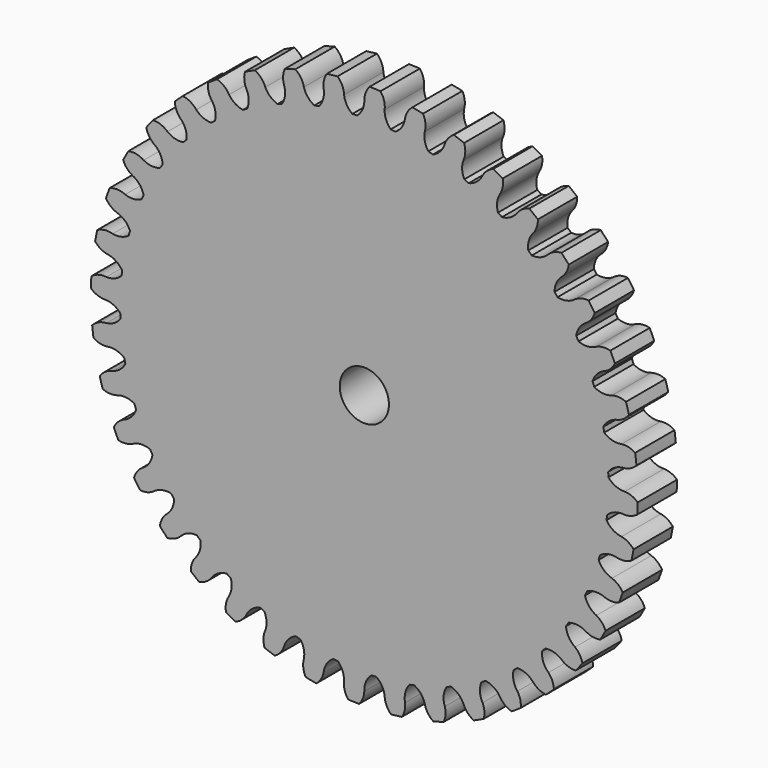
from build123d import *

# Parameters (mm, degrees)
F1_DEPTH = 6
F2_R     = 3
F3_DEPTH = 6.001


with BuildPart() as f1:
    # F0 (on Front) → F1 (new body)
    with BuildSketch(Plane.XZ):
        with BuildLine():
            ThreePointArc((29.620424, -3.211372), (29.750574, -1.60803), (29.794, 0))
            ThreePointArc((29.794, 0), (29.790784, 0.437781), (29.781135, 0.875468))
            ThreePointArc((29.781135, 0.875468), (29.771069, 1.168701), (29.758117, 1.46182))
            ThreePointArc((29.758117, 1.46182), (29.5876, 3.500909), (29.277526, 5.523486))
            ThreePointArc((29.277526, 5.523486), (29.221713, 5.811534), (29.163066, 6.099018))
            ThreePointArc((29.163066, 6.099018), (28.675665, 8.086328), (28.053008, 10.035496))
            ThreePointArc((28.053008, 10.035496), (27.952821, 10.311267), (27.849924, 10.586038))
            ThreePointArc((27.849924, 10.586038), (27.057639, 12.472634), (26.137731, 14.3004))
            ThreePointArc((26.137731, 14.3004), (25.995638, 14.557103), (25.851024, 14.812394))
            ThreePointArc((25.851024, 14.812394), (24.773365, 16.551822), (23.578857, 18.21318))
            ThreePointArc((23.578857, 18.21318), (23.398356, 18.444494), (23.215586, 18.67402))
            ThreePointArc((23.215586, 18.67402), (21.879088, 20.22345), (20.439393, 21.677492))
            ThreePointArc((20.439393, 21.677492), (20.224929, 21.877721), (20.008503, 22.075829))
            ThreePointArc((20.008503, 22.075829), (18.446076, 23.397109), (16.796643, 24.608031))
            ThreePointArc((16.796643, 24.608031), (16.553497, 24.772246), (16.308745, 24.934059))
            ThreePointArc((16.308745, 24.934059), (14.55886, 25.994654), (12.740304, 26.93264))
            ThreePointArc((12.740304, 26.93264), (12.474463, 27.056796), (12.207411, 27.178329))
            ThreePointArc((12.207411, 27.178329), (10.313156, 27.952124), (8.370257, 28.594077))
            ThreePointArc((8.370257, 28.594077), (8.088266, 28.675118), (7.80549, 28.753378))
            ThreePointArc((7.80549, 28.753378), (5.813508, 29.22132), (3.794106, 29.551433))
            ThreePointArc((3.794106, 29.551433), (3.502909, 29.587363), (3.211372, 29.620424))
            ThreePointArc((3.211372, 29.620424), (1.170713, 29.77099), (-0.875468, 29.781135))
            ThreePointArc((-0.875468, 29.781135), (-1.168701, 29.771069), (-1.46182, 29.758117))
            ThreePointArc((-1.46182, 29.758117), (-3.500909, 29.5876), (-5.523486, 29.277526))
            ThreePointArc((-5.523486, 29.277526), (-5.811534, 29.221713), (-6.099018, 29.163066))
            ThreePointArc((-6.099018, 29.163066), (-8.086328, 28.675665), (-10.035496, 28.053008))
            ThreePointArc((-10.035496, 28.053008), (-10.311267, 27.952821), (-10.586038, 27.849924))
            ThreePointArc((-10.586038, 27.849924), (-12.472634, 27.057639), (-14.3004, 26.137731))
            ThreePointArc((-14.3004, 26.137731), (-14.557103, 25.995638), (-14.812394, 25.851024))
            ThreePointArc((-14.812394, 25.851024), (-16.551822, 24.773365), (-18.21318, 23.578857))
            ThreePointArc((-18.21318, 23.578857), (-18.444494, 23.398356), (-18.67402, 23.215586))
            ThreePointArc((-18.67402, 23.215586), (-20.22345, 21.879088), (-21.677492, 20.439393))
            ThreePointArc((-21.677492, 20.439393), (-21.877721, 20.224929), (-22.075829, 20.008503))
            ThreePointArc((-22.075829, 20.008503), (-23.397109, 18.446076), (-24.608031, 16.796643))
            ThreePointArc((-24.608031, 16.796643), (-24.772246, 16.553497), (-24.934059, 16.308745))
            ThreePointArc((-24.934059, 16.308745), (-25.994654, 14.55886), (-26.93264, 12.740304))
            ThreePointArc((-26.93264, 12.740304), (-27.056796, 12.474463), (-27.178329, 12.207411))
            ThreePointArc((-27.178329, 12.207411), (-27.952124, 10.313156), (-28.594077, 8.370257))
            ThreePointArc((-28.594077, 8.370257), (-28.675118, 8.088266), (-28.753378, 7.80549))
            ThreePointArc((-28.753378, 7.80549), (-29.22132, 5.813508), (-29.551433, 3.794106))
            ThreePointArc((-29.551433, 3.794106), (-29.587363, 3.502909), (-29.620424, 3.211372))
            ThreePointArc((-29.620424, 3.211372), (-29.77099, 1.170713), (-29.781135, -0.875468))
            ThreePointArc((-29.781135, -0.875468), (-29.771069, -1.168701), (-29.758117, -1.46182))
            ThreePointArc((-29.758117, -1.46182), (-29.5876, -3.500909), (-29.277526, -5.523486))
            ThreePointArc((-29.277526, -5.523486), (-29.221713, -5.811534), (-29.163066, -6.099018))
            ThreePointArc((-29.163066, -6.099018), (-28.675665, -8.086328), (-28.053008, -10.035496))
            ThreePointArc((-28.053008, -10.035496), (-27.952821, -10.311267), (-27.849924, -10.586038))
            ThreePointArc((-27.849924, -10.586038), (-27.057639, -12.472634), (-26.137731, -14.3004))
            ThreePointArc((-26.137731, -14.3004), (-25.995638, -14.557103), (-25.851024, -14.812394))
            ThreePointArc((-25.851024, -14.812394), (-24.773365, -16.551822), (-23.578857, -18.21318))
            ThreePointArc((-23.578857, -18.21318), (-23.398356, -18.444494), (-23.215586, -18.67402))
            ThreePointArc((-23.215586, -18.67402), (-21.879088, -20.22345), (-20.439393, -21.677492))
            ThreePointArc((-20.439393, -21.677492), (-20.224929, -21.877721), (-20.008503, -22.075829))
            ThreePointArc((-20.008503, -22.075829), (-18.446076, -23.397109), (-16.796643, -24.608031))
            ThreePointArc((-16.796643, -24.608031), (-16.553497, -24.772246), (-16.308745, -24.934059))
            ThreePointArc((-16.308745, -24.934059), (-14.55886, -25.994654), (-12.740304, -26.93264))
            ThreePointArc((-12.740304, -26.93264), (-12.474463, -27.056796), (-12.207411, -27.178329))
            ThreePointArc((-12.207411, -27.178329), (-10.313156, -27.952124), (-8.370257, -28.594077))
            ThreePointArc((-8.370257, -28.594077), (-8.088266, -28.675118), (-7.80549, -28.753378))
            ThreePointArc((-7.80549, -28.753378), (-5.813508, -29.22132), (-3.794106, -29.551433))
            ThreePointArc((-3.794106, -29.551433), (-3.502909, -29.587363), (-3.211372, -29.620424))
            ThreePointArc((-3.211372, -29.620424), (-1.170713, -29.77099), (0.875468, -29.781135))
            ThreePointArc((0.875468, -29.781135), (1.168701, -29.771069), (1.46182, -29.758117))
            ThreePointArc((1.46182, -29.758117), (3.500909, -29.5876), (5.523486, -29.277526))
            ThreePointArc((5.523486, -29.277526), (5.811534, -29.221713), (6.099018, -29.163066))
            ThreePointArc((6.099018, -29.163066), (8.086328, -28.675665), (10.035496, -28.053008))
            ThreePointArc((10.035496, -28.053008), (10.311267, -27.952821), (10.586038, -27.849924))
            ThreePointArc((10.586038, -27.849924), (12.472634, -27.057639), (14.3004, -26.137731))
            ThreePointArc((14.3004, -26.137731), (14.557103, -25.995638), (14.812394, -25.851024))
            ThreePointArc((14.812394, -25.851024), (16.551822, -24.773365), (18.21318, -23.578857))
            ThreePointArc((18.21318, -23.578857), (18.444494, -23.398356), (18.67402, -23.215586))
            ThreePointArc((18.67402, -23.215586), (20.22345, -21.879088), (21.677492, -20.439393))
            ThreePointArc((21.677492, -20.439393), (21.877721, -20.224929), (22.075829, -20.008503))
            ThreePointArc((22.075829, -20.008503), (23.397109, -18.446076), (24.608031, -16.796643))
            ThreePointArc((24.608031, -16.796643), (24.772246, -16.553497), (24.934059, -16.308745))
            ThreePointArc((24.934059, -16.308745), (25.994654, -14.55886), (26.93264, -12.740304))
            ThreePointArc((26.93264, -12.740304), (27.056796, -12.474463), (27.178329, -12.207411))
            ThreePointArc((27.178329, -12.207411), (27.952124, -10.313156), (28.594077, -8.370257))
            ThreePointArc((28.594077, -8.370257), (28.675118, -8.088266), (28.753378, -7.80549))
            ThreePointArc((28.753378, -7.80549), (29.22132, -5.813508), (29.551433, -3.794106))
            ThreePointArc((29.551433, -3.794106), (29.587363, -3.502909), (29.620424, -3.211372))
        make_face()
        with BuildLine():
            ThreePointArc((29.781135, 0.875468), (29.790784, 0.437781), (29.794, 0))
            ThreePointArc((29.794, 0), (29.750574, -1.60803), (29.620424, -3.211372))
            ThreePointArc((29.620424, -3.211372), (30.476757, -2.650428), (31.486199, -2.480159))
            ThreePointArc((31.486199, -2.480159), (32.448267, -2.406434), (33.310589, -1.973525))
            ThreePointArc((33.310589, -1.973525), (33.343229, -1.311188), (33.362701, -0.648332))
            ThreePointArc((33.362701, -0.648332), (32.628579, -0.18446), (31.78, 0))
            ThreePointArc((31.78, 0), (30.679893, 0.207874), (29.781135, 0.875468))
        make_face()
        with BuildLine():
            ThreePointArc((29.277526, 5.523486), (29.5876, 3.500909), (29.758117, 1.46182))
            ThreePointArc((29.758117, 1.46182), (30.516156, 2.149818), (31.486534, 2.475903))
            ThreePointArc((31.486534, 2.475903), (32.425224, 2.69922), (33.209208, 3.261696))
            ThreePointArc((33.209208, 3.261696), (33.137834, 3.920986), (33.053372, 4.578727))
            ThreePointArc((33.053372, 4.578727), (32.255723, 4.922046), (31.388735, 4.971487))
            ThreePointArc((31.388735, 4.971487), (30.269654, 5.004707), (29.277526, 5.523486))
        make_face()
        with BuildLine():
            ThreePointArc((31.388735, -4.971487), (30.334691, -4.594078), (29.551433, -3.794106))
            ThreePointArc((29.551433, -3.794106), (29.22132, -5.813508), (28.753378, -7.80549))
            ThreePointArc((28.753378, -7.80549), (29.686919, -7.385412), (30.710569, -7.375151))
            ThreePointArc((30.710569, -7.375151), (31.672326, -7.452834), (32.591753, -7.160152))
            ThreePointArc((32.591753, -7.160152), (32.727604, -6.511075), (32.850529, -5.859426))
            ThreePointArc((32.850529, -5.859426), (32.198012, -5.286423), (31.388735, -4.971487))
        make_face()
        with BuildLine():
            ThreePointArc((28.053008, 10.035496), (28.675665, 8.086328), (29.163066, 6.099018))
            ThreePointArc((29.163066, 6.099018), (29.804146, 6.897129), (30.711566, 7.370999))
            ThreePointArc((30.711566, 7.370999), (31.603765, 7.738411), (32.290106, 8.416604))
            ThreePointArc((32.290106, 8.416604), (32.116475, 9.056611), (31.93016, 9.693042))
            ThreePointArc((31.93016, 9.693042), (31.088624, 9.907354), (30.224576, 9.82056))
            ThreePointArc((30.224576, 9.82056), (29.114075, 9.678308), (28.053008, 10.035496))
        make_face()
        with BuildLine():
            ThreePointArc((30.224576, -9.82056), (29.242548, -9.282908), (28.594077, -8.370257))
            ThreePointArc((28.594077, -8.370257), (27.952124, -10.313156), (27.178329, -12.207411))
            ThreePointArc((27.178329, -12.207411), (28.166091, -11.938543), (29.178743, -12.088542))
            ThreePointArc((29.178743, -12.088542), (30.116507, -12.315721), (31.0704, -12.170472))
            ThreePointArc((31.0704, -12.170472), (31.306116, -11.550638), (31.529469, -10.926242))
            ThreePointArc((31.529469, -10.926242), (30.974622, -10.258217), (30.224576, -9.82056))
        make_face()
        with BuildLine():
            ThreePointArc((26.137731, 14.3004), (27.057639, 12.472634), (27.849924, 10.586038))
            ThreePointArc((27.849924, 10.586038), (28.358259, 11.474609), (29.180377, 12.084598))
            ThreePointArc((29.180377, 12.084598), (30.004116, 12.587056), (30.575914, 13.364267))
            ThreePointArc((30.575914, 13.364267), (30.304302, 13.969233), (30.020721, 14.568682))
            ThreePointArc((30.020721, 14.568682), (29.15602, 14.64871), (28.316187, 14.427818))
            ThreePointArc((28.316187, 14.427818), (27.241612, 14.113597), (26.137731, 14.3004))
        make_face()
        with BuildLine():
            ThreePointArc((28.316187, -14.427818), (27.430357, -13.743163), (26.93264, -12.740304))
            ThreePointArc((26.93264, -12.740304), (25.994654, -14.55886), (24.934059, -16.308745))
            ThreePointArc((24.934059, -16.308745), (25.95172, -16.197707), (26.92844, -16.504273))
            ThreePointArc((26.92844, -16.504273), (27.819119, -16.875353), (28.783991, -16.881115))
            ThreePointArc((28.783991, -16.881115), (29.113768, -16.305786), (29.432048, -15.724017))
            ThreePointArc((29.432048, -15.724017), (28.988534, -14.97742), (28.316187, -14.427818))
        make_face()
        with BuildLine():
            ThreePointArc((23.578857, 18.21318), (24.773365, 16.551822), (25.851024, 14.812394))
            ThreePointArc((25.851024, 14.812394), (26.214097, 15.769547), (26.930671, 16.500633))
            ThreePointArc((26.930671, 16.500633), (27.665666, 17.125767), (28.108842, 17.982857))
            ThreePointArc((28.108842, 17.982857), (27.745936, 18.537886), (27.372072, 19.085592))
            ThreePointArc((27.372072, 19.085592), (26.505498, 19.029367), (25.71056, 18.679815))
            ThreePointArc((25.71056, 18.679815), (24.698369, 18.201362), (23.578857, 18.21318))
        make_face()
        with BuildLine():
            ThreePointArc((25.71056, -18.679815), (24.94274, -17.865015), (24.608031, -16.796643))
            ThreePointArc((24.608031, -16.796643), (23.397109, -18.446076), (22.075829, -20.008503))
            ThreePointArc((22.075829, -20.008503), (23.098332, -20.05803), (24.015069, -20.513614))
            ThreePointArc((24.015069, -20.513614), (24.836733, -21.019459), (25.788824, -21.176089))
            ThreePointArc((25.788824, -21.176089), (26.204543, -20.659431), (26.609912, -20.134615))
            ThreePointArc((26.609912, -20.134615), (26.288653, -19.327829), (25.71056, -18.679815))
        make_face()
        with BuildLine():
            ThreePointArc((20.439393, 21.677492), (21.879088, 20.22345), (23.215586, 18.67402))
            ThreePointArc((23.215586, 18.67402), (23.424457, 19.676186), (24.017842, 20.510368))
            ThreePointArc((24.017842, 20.510368), (24.645995, 21.242784), (24.949637, 22.15865))
            ThreePointArc((24.949637, 22.15865), (24.504373, 22.650074), (24.049432, 23.132552))
            ThreePointArc((24.049432, 23.132552), (23.202322, 22.941457), (22.471854, 22.471854))
            ThreePointArc((22.471854, 22.471854), (21.546971, 21.840949), (20.439393, 21.677492))
        make_face()
        with BuildLine():
            ThreePointArc((22.471854, -22.471854), (21.840949, -21.546971), (21.677492, -20.439393))
            ThreePointArc((21.677492, -20.439393), (20.22345, -21.879088), (18.67402, -23.215586))
            ThreePointArc((18.67402, -23.215586), (19.676186, -23.424457), (20.510368, -24.017842))
            ThreePointArc((20.510368, -24.017842), (21.242784, -24.645995), (22.15865, -24.949637))
            ThreePointArc((22.15865, -24.949637), (22.650074, -24.504373), (23.132552, -24.049432))
            ThreePointArc((23.132552, -24.049432), (22.941457, -23.202322), (22.471854, -22.471854))
        make_face()
        with BuildLine():
            ThreePointArc((16.796643, 24.608031), (18.446076, 23.397109), (20.008503, 22.075829))
            ThreePointArc((20.008503, 22.075829), (20.05803, 23.098332), (20.513614, 24.015069))
            ThreePointArc((20.513614, 24.015069), (21.019459, 24.836733), (21.176089, 25.788824))
            ThreePointArc((21.176089, 25.788824), (20.659431, 26.204543), (20.134615, 26.609912))
            ThreePointArc((20.134615, 26.609912), (19.327829, 26.288653), (18.679815, 25.71056))
            ThreePointArc((18.679815, 25.71056), (17.865015, 24.94274), (16.796643, 24.608031))
        make_face()
        with BuildLine():
            ThreePointArc((18.679815, -25.71056), (18.201362, -24.698369), (18.21318, -23.578857))
            ThreePointArc((18.21318, -23.578857), (16.551822, -24.773365), (14.812394, -25.851024))
            ThreePointArc((14.812394, -25.851024), (15.769547, -26.214097), (16.500633, -26.930671))
            ThreePointArc((16.500633, -26.930671), (17.125767, -27.665666), (17.982857, -28.108842))
            ThreePointArc((17.982857, -28.108842), (18.537886, -27.745936), (19.085592, -27.372072))
            ThreePointArc((19.085592, -27.372072), (19.029367, -26.505498), (18.679815, -25.71056))
        make_face()
        with BuildLine():
            ThreePointArc((12.740304, 26.93264), (14.55886, 25.994654), (16.308745, 24.934059))
            ThreePointArc((16.308745, 24.934059), (16.197707, 25.95172), (16.504273, 26.92844))
            ThreePointArc((16.504273, 26.92844), (16.875353, 27.819119), (16.881115, 28.783991))
            ThreePointArc((16.881115, 28.783991), (16.305786, 29.113768), (15.724017, 29.432048))
            ThreePointArc((15.724017, 29.432048), (14.97742, 28.988534), (14.427818, 28.316187))
            ThreePointArc((14.427818, 28.316187), (13.743163, 27.430357), (12.740304, 26.93264))
        make_face()
        with BuildLine():
            ThreePointArc((14.427818, -28.316187), (14.113597, -27.241612), (14.3004, -26.137731))
            ThreePointArc((14.3004, -26.137731), (12.472634, -27.057639), (10.586038, -27.849924))
            ThreePointArc((10.586038, -27.849924), (11.474609, -28.358259), (12.084598, -29.180377))
            ThreePointArc((12.084598, -29.180377), (12.587056, -30.004116), (13.364267, -30.575914))
            ThreePointArc((13.364267, -30.575914), (13.969233, -30.304302), (14.568682, -30.020721))
            ThreePointArc((14.568682, -30.020721), (14.64871, -29.15602), (14.427818, -28.316187))
        make_face()
        with BuildLine():
            ThreePointArc((8.370257, 28.594077), (10.313156, 27.952124), (12.207411, 27.178329))
            ThreePointArc((12.207411, 27.178329), (11.938543, 28.166091), (12.088542, 29.178743))
            ThreePointArc((12.088542, 29.178743), (12.315721, 30.116507), (12.170472, 31.0704))
            ThreePointArc((12.170472, 31.0704), (11.550638, 31.306116), (10.926242, 31.529469))
            ThreePointArc((10.926242, 31.529469), (10.258217, 30.974622), (9.82056, 30.224576))
            ThreePointArc((9.82056, 30.224576), (9.282908, 29.242548), (8.370257, 28.594077))
        make_face()
        with BuildLine():
            ThreePointArc((9.82056, -30.224576), (9.678308, -29.114075), (10.035496, -28.053008))
            ThreePointArc((10.035496, -28.053008), (8.086328, -28.675665), (6.099018, -29.163066))
            ThreePointArc((6.099018, -29.163066), (6.897129, -29.804146), (7.370999, -30.711566))
            ThreePointArc((7.370999, -30.711566), (7.738411, -31.603765), (8.416604, -32.290106))
            ThreePointArc((8.416604, -32.290106), (9.056611, -32.116475), (9.693042, -31.93016))
            ThreePointArc((9.693042, -31.93016), (9.907354, -31.088624), (9.82056, -30.224576))
        make_face()
        with BuildLine():
            ThreePointArc((3.794106, 29.551433), (5.813508, 29.22132), (7.80549, 28.753378))
            ThreePointArc((7.80549, 28.753378), (7.385412, 29.686919), (7.375151, 30.710569))
            ThreePointArc((7.375151, 30.710569), (7.452834, 31.672326), (7.160152, 32.591753))
            ThreePointArc((7.160152, 32.591753), (6.511075, 32.727604), (5.859426, 32.850529))
            ThreePointArc((5.859426, 32.850529), (5.286423, 32.198012), (4.971487, 31.388735))
            ThreePointArc((4.971487, 31.388735), (4.594078, 30.334691), (3.794106, 29.551433))
        make_face()
        with BuildLine():
            ThreePointArc((4.971487, -31.388735), (5.004707, -30.269654), (5.523486, -29.277526))
            ThreePointArc((5.523486, -29.277526), (3.500909, -29.5876), (1.46182, -29.758117))
            ThreePointArc((1.46182, -29.758117), (2.149818, -30.516156), (2.475903, -31.486534))
            ThreePointArc((2.475903, -31.486534), (2.69922, -32.425224), (3.261696, -33.209208))
            ThreePointArc((3.261696, -33.209208), (3.920986, -33.137834), (4.578727, -33.053372))
            ThreePointArc((4.578727, -33.053372), (4.922046, -32.255723), (4.971487, -31.388735))
        make_face()
        with BuildLine():
            ThreePointArc((-0.875468, 29.781135), (1.170713, 29.77099), (3.211372, 29.620424))
            ThreePointArc((3.211372, 29.620424), (2.650428, 30.476757), (2.480159, 31.486199))
            ThreePointArc((2.480159, 31.486199), (2.406434, 32.448267), (1.973525, 33.310589))
            ThreePointArc((1.973525, 33.310589), (1.311187, 33.343229), (0.648332, 33.362701))
            ThreePointArc((0.648332, 33.362701), (0.18446, 32.628579), (0, 31.78))
            ThreePointArc((0, 31.78), (-0.207874, 30.679893), (-0.875468, 29.781135))
        make_face()
        with BuildLine():
            ThreePointArc((0, -31.78), (0.207874, -30.679893), (0.875468, -29.781135))
            ThreePointArc((0.875468, -29.781135), (-1.170713, -29.77099), (-3.211372, -29.620424))
            ThreePointArc((-3.211372, -29.620424), (-2.650428, -30.476757), (-2.480159, -31.486199))
            ThreePointArc((-2.480159, -31.486199), (-2.406434, -32.448267), (-1.973525, -33.310589))
            ThreePointArc((-1.973525, -33.310589), (-1.311187, -33.343229), (-0.648332, -33.362701))
            ThreePointArc((-0.648332, -33.362701), (-0.18446, -32.628579), (0, -31.78))
        make_face()
        with BuildLine():
            ThreePointArc((-5.523486, 29.277526), (-3.500909, 29.5876), (-1.46182, 29.758117))
            ThreePointArc((-1.46182, 29.758117), (-2.149818, 30.516156), (-2.475903, 31.486534))
            ThreePointArc((-2.475903, 31.486534), (-2.69922, 32.425224), (-3.261696, 33.209208))
            ThreePointArc((-3.261696, 33.209208), (-3.920986, 33.137834), (-4.578727, 33.053372))
            ThreePointArc((-4.578727, 33.053372), (-4.922046, 32.255723), (-4.971487, 31.388735))
            ThreePointArc((-4.971487, 31.388735), (-5.004707, 30.269654), (-5.523486, 29.277526))
        make_face()
        with BuildLine():
            ThreePointArc((-4.971487, -31.388735), (-4.594078, -30.334691), (-3.794106, -29.551433))
            ThreePointArc((-3.794106, -29.551433), (-5.813508, -29.22132), (-7.80549, -28.753378))
            ThreePointArc((-7.80549, -28.753378), (-7.385412, -29.686919), (-7.375151, -30.710569))
            ThreePointArc((-7.375151, -30.710569), (-7.452834, -31.672326), (-7.160152, -32.591753))
            ThreePointArc((-7.160152, -32.591753), (-6.511075, -32.727604), (-5.859426, -32.850529))
            ThreePointArc((-5.859426, -32.850529), (-5.286423, -32.198012), (-4.971487, -31.388735))
        make_face()
        with BuildLine():
            ThreePointArc((-10.035496, 28.053008), (-8.086328, 28.675665), (-6.099018, 29.163066))
            ThreePointArc((-6.099018, 29.163066), (-6.897129, 29.804146), (-7.370999, 30.711566))
            ThreePointArc((-7.370999, 30.711566), (-7.738411, 31.603765), (-8.416604, 32.290106))
            ThreePointArc((-8.416604, 32.290106), (-9.056611, 32.116475), (-9.693042, 31.93016))
            ThreePointArc((-9.693042, 31.93016), (-9.907354, 31.088624), (-9.82056, 30.224576))
            ThreePointArc((-9.82056, 30.224576), (-9.678308, 29.114075), (-10.035496, 28.053008))
        make_face()
        with BuildLine():
            ThreePointArc((-9.82056, -30.224576), (-9.282908, -29.242548), (-8.370257, -28.594077))
            ThreePointArc((-8.370257, -28.594077), (-10.313156, -27.952124), (-12.207411, -27.178329))
            ThreePointArc((-12.207411, -27.178329), (-11.938543, -28.166091), (-12.088542, -29.178743))
            ThreePointArc((-12.088542, -29.178743), (-12.315721, -30.116507), (-12.170472, -31.0704))
            ThreePointArc((-12.170472, -31.0704), (-11.550638, -31.306116), (-10.926242, -31.529469))
            ThreePointArc((-10.926242, -31.529469), (-10.258217, -30.974622), (-9.82056, -30.224576))
        make_face()
        with BuildLine():
            ThreePointArc((-14.3004, 26.137731), (-12.472634, 27.057639), (-10.586038, 27.849924))
            ThreePointArc((-10.586038, 27.849924), (-11.474609, 28.358259), (-12.084598, 29.180377))
            ThreePointArc((-12.084598, 29.180377), (-12.587056, 30.004116), (-13.364267, 30.575914))
            ThreePointArc((-13.364267, 30.575914), (-13.969233, 30.304302), (-14.568682, 30.020721))
            ThreePointArc((-14.568682, 30.020721), (-14.64871, 29.15602), (-14.427818, 28.316187))
            ThreePointArc((-14.427818, 28.316187), (-14.113597, 27.241612), (-14.3004, 26.137731))
        make_face()
        with BuildLine():
            ThreePointArc((-14.427818, -28.316187), (-13.743163, -27.430357), (-12.740304, -26.93264))
            ThreePointArc((-12.740304, -26.93264), (-14.55886, -25.994654), (-16.308745, -24.934059))
            ThreePointArc((-16.308745, -24.934059), (-16.197707, -25.95172), (-16.504273, -26.92844))
            ThreePointArc((-16.504273, -26.92844), (-16.875353, -27.819119), (-16.881115, -28.783991))
            ThreePointArc((-16.881115, -28.783991), (-16.305786, -29.113768), (-15.724017, -29.432048))
            ThreePointArc((-15.724017, -29.432048), (-14.97742, -28.988534), (-14.427818, -28.316187))
        make_face()
        with BuildLine():
            ThreePointArc((-18.21318, 23.578857), (-16.551822, 24.773365), (-14.812394, 25.851024))
            ThreePointArc((-14.812394, 25.851024), (-15.769547, 26.214097), (-16.500633, 26.930671))
            ThreePointArc((-16.500633, 26.930671), (-17.125767, 27.665666), (-17.982857, 28.108842))
            ThreePointArc((-17.982857, 28.108842), (-18.537886, 27.745936), (-19.085592, 27.372072))
            ThreePointArc((-19.085592, 27.372072), (-19.029367, 26.505498), (-18.679815, 25.71056))
            ThreePointArc((-18.679815, 25.71056), (-18.201362, 24.698369), (-18.21318, 23.578857))
        make_face()
        with BuildLine():
            ThreePointArc((-18.679815, -25.71056), (-17.865015, -24.94274), (-16.796643, -24.608031))
            ThreePointArc((-16.796643, -24.608031), (-18.446076, -23.397109), (-20.008503, -22.075829))
            ThreePointArc((-20.008503, -22.075829), (-20.05803, -23.098332), (-20.513614, -24.015069))
            ThreePointArc((-20.513614, -24.015069), (-21.019459, -24.836733), (-21.176089, -25.788824))
            ThreePointArc((-21.176089, -25.788824), (-20.659431, -26.204543), (-20.134615, -26.609912))
            ThreePointArc((-20.134615, -26.609912), (-19.327829, -26.288653), (-18.679815, -25.71056))
        make_face()
        with BuildLine():
            ThreePointArc((-21.677492, 20.439393), (-20.22345, 21.879088), (-18.67402, 23.215586))
            ThreePointArc((-18.67402, 23.215586), (-19.676186, 23.424457), (-20.510368, 24.017842))
            ThreePointArc((-20.510368, 24.017842), (-21.242784, 24.645995), (-22.15865, 24.949637))
            ThreePointArc((-22.15865, 24.949637), (-22.650074, 24.504373), (-23.132552, 24.049432))
            ThreePointArc((-23.132552, 24.049432), (-22.941457, 23.202322), (-22.471854, 22.471854))
            ThreePointArc((-22.471854, 22.471854), (-21.840949, 21.546971), (-21.677492, 20.439393))
        make_face()
        with BuildLine():
            ThreePointArc((-22.471854, -22.471854), (-21.546971, -21.840949), (-20.439393, -21.677492))
            ThreePointArc((-20.439393, -21.677492), (-21.879088, -20.22345), (-23.215586, -18.67402))
            ThreePointArc((-23.215586, -18.67402), (-23.424457, -19.676186), (-24.017842, -20.510368))
            ThreePointArc((-24.017842, -20.510368), (-24.645995, -21.242784), (-24.949637, -22.15865))
            ThreePointArc((-24.949637, -22.15865), (-24.504373, -22.650074), (-24.049432, -23.132552))
            ThreePointArc((-24.049432, -23.132552), (-23.202322, -22.941457), (-22.471854, -22.471854))
        make_face()
        with BuildLine():
            ThreePointArc((-24.608031, 16.796643), (-23.397109, 18.446076), (-22.075829, 20.008503))
            ThreePointArc((-22.075829, 20.008503), (-23.098332, 20.05803), (-24.015069, 20.513614))
            ThreePointArc((-24.015069, 20.513614), (-24.836733, 21.019459), (-25.788824, 21.176089))
            ThreePointArc((-25.788824, 21.176089), (-26.204543, 20.659431), (-26.609912, 20.134615))
            ThreePointArc((-26.609912, 20.134615), (-26.288653, 19.327829), (-25.71056, 18.679815))
            ThreePointArc((-25.71056, 18.679815), (-24.94274, 17.865015), (-24.608031, 16.796643))
        make_face()
        with BuildLine():
            ThreePointArc((-25.71056, -18.679815), (-24.698369, -18.201362), (-23.578857, -18.21318))
            ThreePointArc((-23.578857, -18.21318), (-24.773365, -16.551822), (-25.851024, -14.812394))
            ThreePointArc((-25.851024, -14.812394), (-26.214097, -15.769547), (-26.930671, -16.500633))
            ThreePointArc((-26.930671, -16.500633), (-27.665666, -17.125767), (-28.108842, -17.982857))
            ThreePointArc((-28.108842, -17.982857), (-27.745936, -18.537886), (-27.372072, -19.085592))
            ThreePointArc((-27.372072, -19.085592), (-26.505498, -19.029367), (-25.71056, -18.679815))
        make_face()
        with BuildLine():
            ThreePointArc((-26.93264, 12.740304), (-25.994654, 14.55886), (-24.934059, 16.308745))
            ThreePointArc((-24.934059, 16.308745), (-25.95172, 16.197707), (-26.92844, 16.504273))
            ThreePointArc((-26.92844, 16.504273), (-27.819119, 16.875353), (-28.783991, 16.881115))
            ThreePointArc((-28.783991, 16.881115), (-29.113768, 16.305786), (-29.432048, 15.724017))
            ThreePointArc((-29.432048, 15.724017), (-28.988534, 14.97742), (-28.316187, 14.427818))
            ThreePointArc((-28.316187, 14.427818), (-27.430357, 13.743163), (-26.93264, 12.740304))
        make_face()
        with BuildLine():
            ThreePointArc((-28.316187, -14.427818), (-27.241612, -14.113597), (-26.137731, -14.3004))
            ThreePointArc((-26.137731, -14.3004), (-27.057639, -12.472634), (-27.849924, -10.586038))
            ThreePointArc((-27.849924, -10.586038), (-28.358259, -11.474609), (-29.180377, -12.084598))
            ThreePointArc((-29.180377, -12.084598), (-30.004116, -12.587056), (-30.575914, -13.364267))
            ThreePointArc((-30.575914, -13.364267), (-30.304302, -13.969233), (-30.020721, -14.568682))
            ThreePointArc((-30.020721, -14.568682), (-29.15602, -14.64871), (-28.316187, -14.427818))
        make_face()
        with BuildLine():
            ThreePointArc((-28.594077, 8.370257), (-27.952124, 10.313156), (-27.178329, 12.207411))
            ThreePointArc((-27.178329, 12.207411), (-28.166091, 11.938543), (-29.178743, 12.088542))
            ThreePointArc((-29.178743, 12.088542), (-30.116507, 12.315721), (-31.0704, 12.170472))
            ThreePointArc((-31.0704, 12.170472), (-31.306116, 11.550638), (-31.529469, 10.926242))
            ThreePointArc((-31.529469, 10.926242), (-30.974622, 10.258217), (-30.224576, 9.82056))
            ThreePointArc((-30.224576, 9.82056), (-29.242548, 9.282908), (-28.594077, 8.370257))
        make_face()
        with BuildLine():
            ThreePointArc((-30.224576, -9.82056), (-29.114075, -9.678308), (-28.053008, -10.035496))
            ThreePointArc((-28.053008, -10.035496), (-28.675665, -8.086328), (-29.163066, -6.099018))
            ThreePointArc((-29.163066, -6.099018), (-29.804146, -6.897129), (-30.711566, -7.370999))
            ThreePointArc((-30.711566, -7.370999), (-31.603765, -7.738411), (-32.290106, -8.416604))
            ThreePointArc((-32.290106, -8.416604), (-32.116475, -9.056611), (-31.93016, -9.693042))
            ThreePointArc((-31.93016, -9.693042), (-31.088624, -9.907354), (-30.224576, -9.82056))
        make_face()
        with BuildLine():
            ThreePointArc((-29.551433, 3.794106), (-29.22132, 5.813508), (-28.753378, 7.80549))
            ThreePointArc((-28.753378, 7.80549), (-29.686919, 7.385412), (-30.710569, 7.375151))
            ThreePointArc((-30.710569, 7.375151), (-31.672326, 7.452834), (-32.591753, 7.160152))
            ThreePointArc((-32.591753, 7.160152), (-32.727604, 6.511075), (-32.850529, 5.859426))
            ThreePointArc((-32.850529, 5.859426), (-32.198012, 5.286423), (-31.388735, 4.971487))
            ThreePointArc((-31.388735, 4.971487), (-30.334691, 4.594078), (-29.551433, 3.794106))
        make_face()
        with BuildLine():
            ThreePointArc((-31.388735, -4.971487), (-30.269654, -5.004707), (-29.277526, -5.523486))
            ThreePointArc((-29.277526, -5.523486), (-29.5876, -3.500909), (-29.758117, -1.46182))
            ThreePointArc((-29.758117, -1.46182), (-30.516156, -2.149818), (-31.486534, -2.475903))
            ThreePointArc((-31.486534, -2.475903), (-32.425224, -2.69922), (-33.209208, -3.261696))
            ThreePointArc((-33.209208, -3.261696), (-33.137834, -3.920986), (-33.053372, -4.578727))
            ThreePointArc((-33.053372, -4.578727), (-32.255723, -4.922046), (-31.388735, -4.971487))
        make_face()
        with BuildLine():
            ThreePointArc((-29.781135, -0.875468), (-29.77099, 1.170713), (-29.620424, 3.211372))
            ThreePointArc((-29.620424, 3.211372), (-30.476757, 2.650428), (-31.486199, 2.480159))
            ThreePointArc((-31.486199, 2.480159), (-32.448267, 2.406434), (-33.310589, 1.973525))
            ThreePointArc((-33.310589, 1.973525), (-33.343229, 1.311187), (-33.362701, 0.648332))
            ThreePointArc((-33.362701, 0.648332), (-32.628579, 0.18446), (-31.78, 0))
            ThreePointArc((-31.78, 0), (-30.679893, -0.207874), (-29.781135, -0.875468))
        make_face()
    extrude(amount=F1_DEPTH)

    # F2 (on face) → F3 (cut, through all)
    with BuildSketch(Plane.XZ.offset(6)):
        Circle(F2_R)
    extrude(amount=-F3_DEPTH, mode=Mode.SUBTRACT)


solid = f1.part
